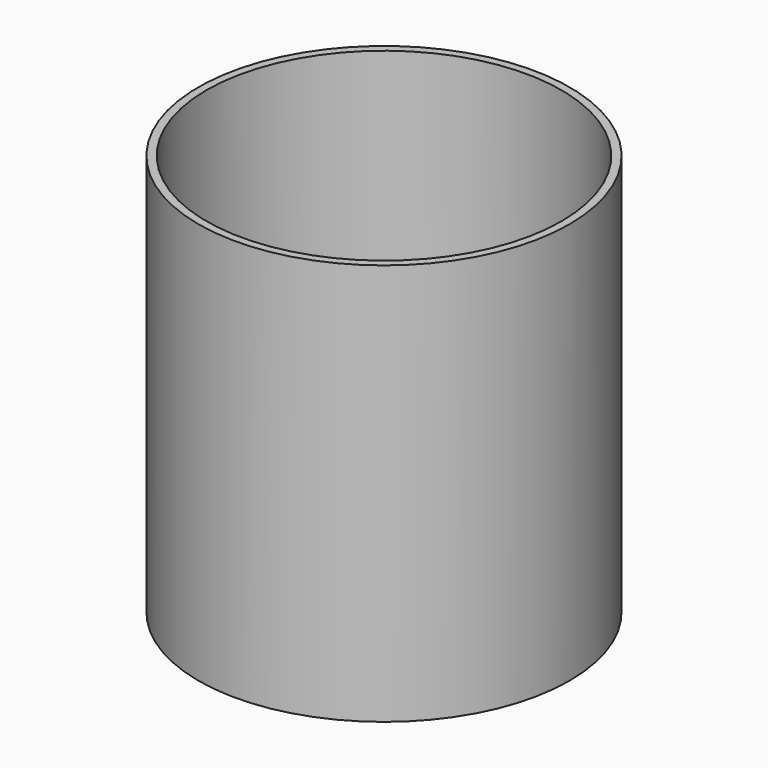
from build123d import *

# Parameters (mm, degrees)
F0_R     = 58.638276
F1_DEPTH = 127
F2_T     = -2.54


with BuildPart() as f1:
    # F0 (on Top) → F1 (new body)
    with BuildSketch(Plane.XY):
        Circle(F0_R)
    extrude(amount=-F1_DEPTH)

    # F2
    f2_openings = [f1.faces().sort_by_distance(p)[0] for p in [
        (0, 0, 0),
    ]]
    offset(amount=F2_T, openings=f2_openings)


solid = f1.part
